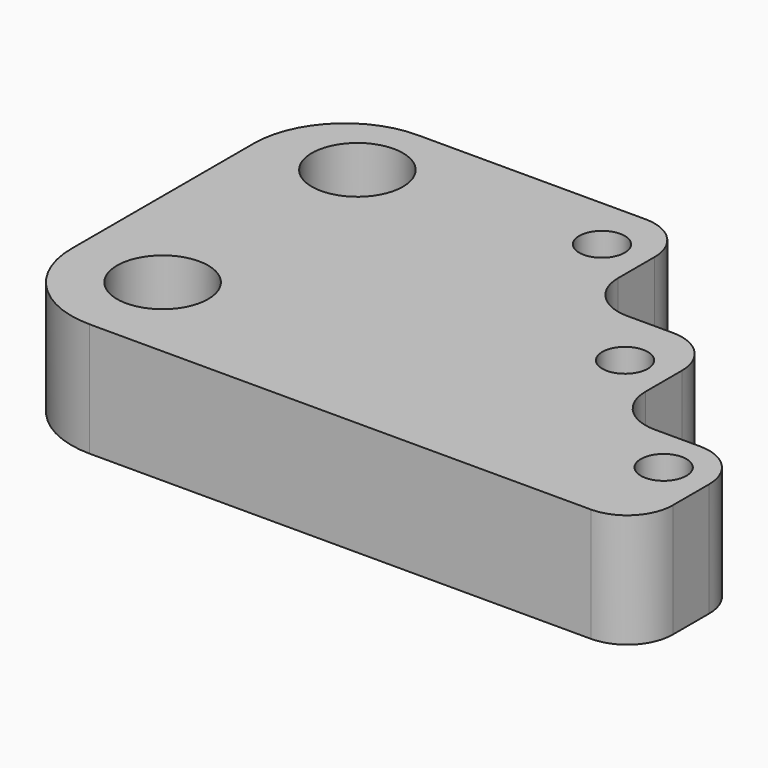
from build123d import *

# Parameters (mm, degrees)
F0_R     = 10
F0_R_2   = 5
F1_DEPTH = 25


with BuildPart() as f1:
    # F0 (on Top) → F1 (new body)
    with BuildSketch(Plane.XY):
        with BuildLine():
            ThreePointArc((-80.264366, 10.813902), (-74.406502, -3.328234), (-60.264366, -9.186098))
            Line((-60.264366, -9.186098), (49.735634, -9.186098))
            ThreePointArc((49.735634, -9.186098), (56.806702, -6.257166), (59.735634, 0.813902))
            Line((59.735634, 0.813902), (59.735634, 10.813902))
            ThreePointArc((59.735634, 10.813902), (56.806702, 17.88497), (49.735634, 20.813902))
            Line((49.735634, 20.813902), (39.735634, 20.813902))
            ThreePointArc((39.735634, 20.813902), (32.664566, 23.742834), (29.735634, 30.813902))
            Line((29.735634, 30.813902), (29.735634, 40.813902))
            ThreePointArc((29.735634, 40.813902), (26.806702, 47.88497), (19.735634, 50.813902))
            Line((19.735634, 50.813902), (9.735634, 50.813902))
            ThreePointArc((9.735634, 50.813902), (2.664566, 53.742834), (-0.264366, 60.813902))
            Line((-0.264366, 60.813902), (-0.264366, 70.813902))
            ThreePointArc((-0.264366, 70.813902), (-3.193298, 77.88497), (-10.264366, 80.813902))
            Line((-10.264366, 80.813902), (-60.264366, 80.813902))
            ThreePointArc((-60.264366, 80.813902), (-74.406502, 74.956037), (-80.264366, 60.813902))
            Line((-80.264366, 60.813902), (-80.264366, 10.813902))
        make_face()
        with Locations((-60.264366, 10.813902)):
            Circle(F0_R, mode=Mode.SUBTRACT)
        with Locations((49.735634, 10.813902)):
            Circle(F0_R_2, mode=Mode.SUBTRACT)
        with Locations((-60.264366, 64.266279)):
            Circle(F0_R, mode=Mode.SUBTRACT)
        with Locations((-10.264366, 68.882748)):
            Circle(F0_R_2, mode=Mode.SUBTRACT)
        with Locations((19.735634, 37.721559)):
            Circle(F0_R_2, mode=Mode.SUBTRACT)
    extrude(amount=F1_DEPTH)


solid = f1.part
